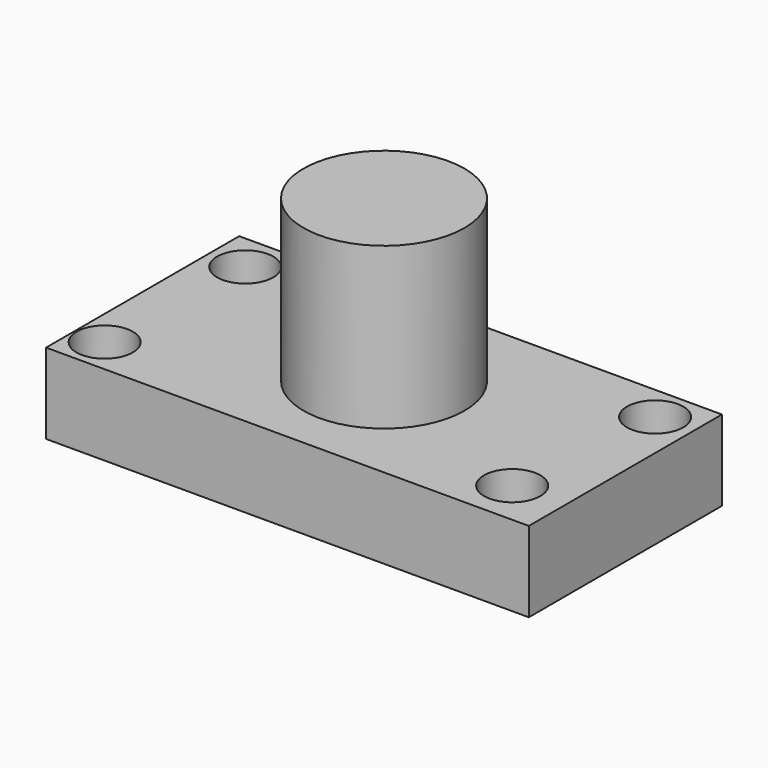
from build123d import *

# Parameters (mm, degrees)
F0_W     = 152.4
F0_H     = 76.2
F0_R     = 8.89
F1_DEPTH = 25.4
F2_W     = 25.4
F2_H     = 50.8


with BuildPart() as f1:
    # F0 (on Top) → F1 (new body)
    with BuildSketch(Plane.XY):
        Rectangle(F0_W, F0_H)
        with Locations((-66.770934, -26.765937)):
            Circle(F0_R, mode=Mode.SUBTRACT)
        with Locations((59.575796, -23.887878)):
            Circle(F0_R, mode=Mode.SUBTRACT)
        with Locations((-64.756297, 26.190324)):
            Circle(F0_R, mode=Mode.SUBTRACT)
        with Locations((64.180687, 26.765937)):
            Circle(F0_R, mode=Mode.SUBTRACT)
    extrude(amount=F1_DEPTH)

    # F2 (on Front) → F3 (revolve)
    with BuildSketch(Plane.XZ):
        with Locations((12.7, 50.8)):
            Rectangle(F2_W, F2_H)
    revolve(axis=Axis((0, 0, 50.8), (0, 0, 1)))


solid = f1.part
